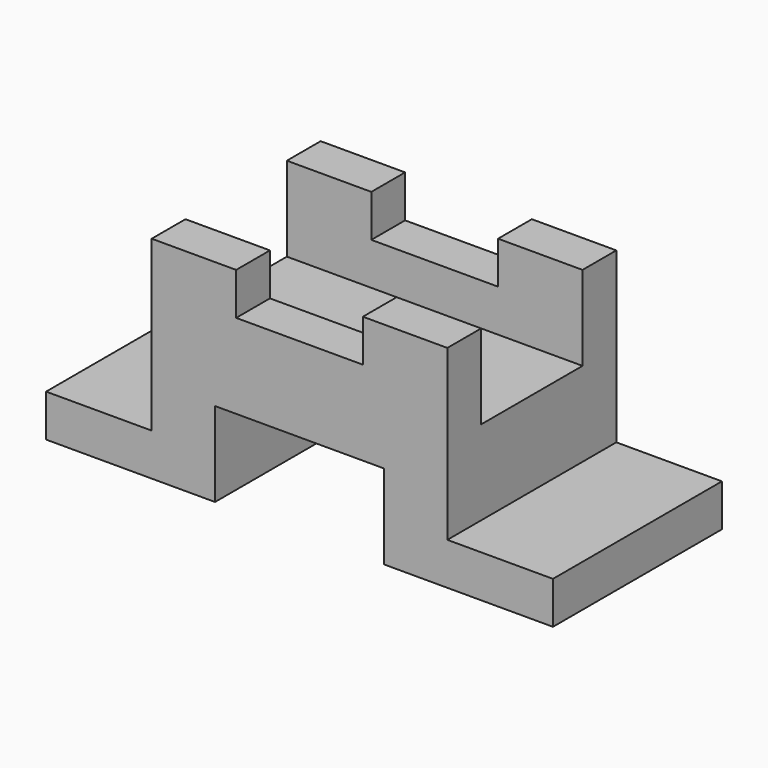
from build123d import *

# Parameters (mm, degrees)
F2_DEPTH = 50
F3_W     = 30
F3_H     = 20
F4_DEPTH = 155


with BuildPart() as f2:
    # F1 (on Front) → F2 (new body)
    with BuildSketch(Plane.XZ):
        Polygon((-60, 0), (-20, 0), (-20, 20), (20, 20), (20, 0), (60, 0), (60, 10), (35, 10), (35, 50), (15, 50), (15, 40), (-15, 40), (-15, 50), (-35, 50), (-35, 10), (-60, 10), align=None)
    extrude(amount=F2_DEPTH)

    # F3 (on face) → F4 (cut)
    with BuildSketch(Plane.YZ.offset(35)):
        with Locations((-25, 40)):
            Rectangle(F3_W, F3_H)
    extrude(amount=-F4_DEPTH, mode=Mode.SUBTRACT)


solid = f2.part
